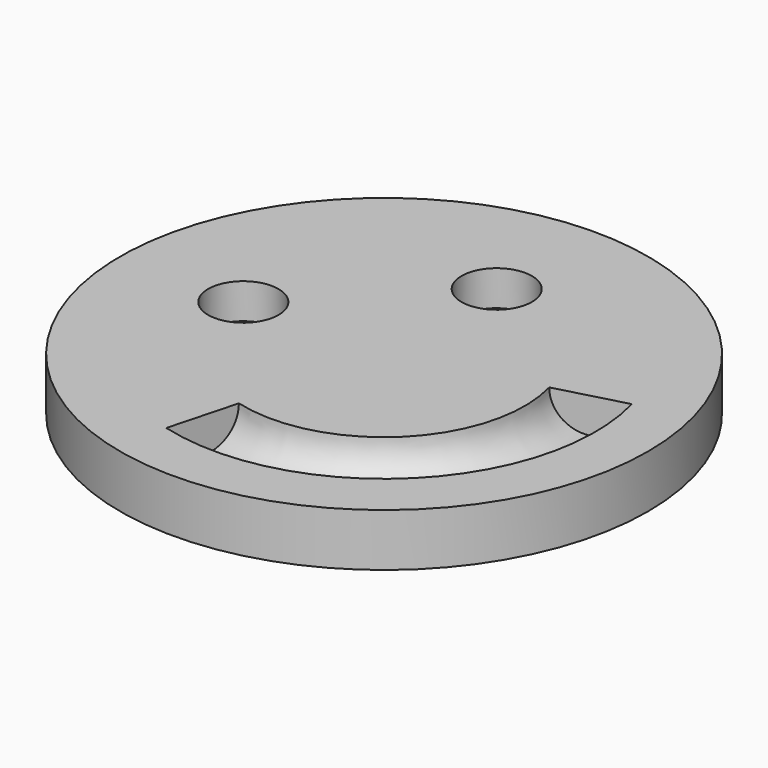
from build123d import *

# Parameters (mm, degrees)
CYLINDER001_R         = 2
CYLINDER001_DEPTH     = 10
CYLINDER002_R         = 2
CYLINDER002_DEPTH     = 10
TORUS_R               = 2
TORUS_ANGLE           = 120
TORUS_PLACEMENT_ANGLE = 255
CYLINDER_R            = 15
CYLINDER_DEPTH        = 3


with BuildPart() as cilindro001:
    # Cylinder001 → Cylinder001 (new body)
    with BuildSketch(Plane(origin=(0, 8, 1), x_dir=(1, 0, 0), z_dir=(0, 0, 1))):
        Circle(CYLINDER001_R)
    extrude(amount=CYLINDER001_DEPTH)


with BuildPart() as fusion:
    # Cylinder002 → Cylinder002 (new body)
    with BuildSketch(Plane(origin=(-8, 0, 1), x_dir=(1, 0, 0), z_dir=(0, 0, 1))):
        Circle(CYLINDER002_R)
    extrude(amount=CYLINDER002_DEPTH)

    # Fusion: union Cilindro001
    add(cilindro001.part)


with BuildPart() as toro:
    # Torus → Torus (revolve)
    with BuildSketch(Plane.XZ):
        with Locations((10, 0)):
            Circle(TORUS_R)
    revolve(axis=Axis((0, 0, 0), (0, 0, 1)), revolution_arc=TORUS_ANGLE)


with BuildPart() as toro_1:
    # Torus placement: moved
    add(toro.part.moved(Location((0, 0, 3))).rotate(Axis((0, 0, 3), (0, 0, 1)), TORUS_PLACEMENT_ANGLE))


with BuildPart() as cut001:
    # Cylinder → Cylinder (new body)
    with BuildSketch(Plane.XY):
        Circle(CYLINDER_R)
    extrude(amount=CYLINDER_DEPTH)

    # Cut: cut Toro
    add(toro_1.part, mode=Mode.SUBTRACT)

    # Cut001: cut Fusion
    add(fusion.part, mode=Mode.SUBTRACT)


solid = cut001.part
